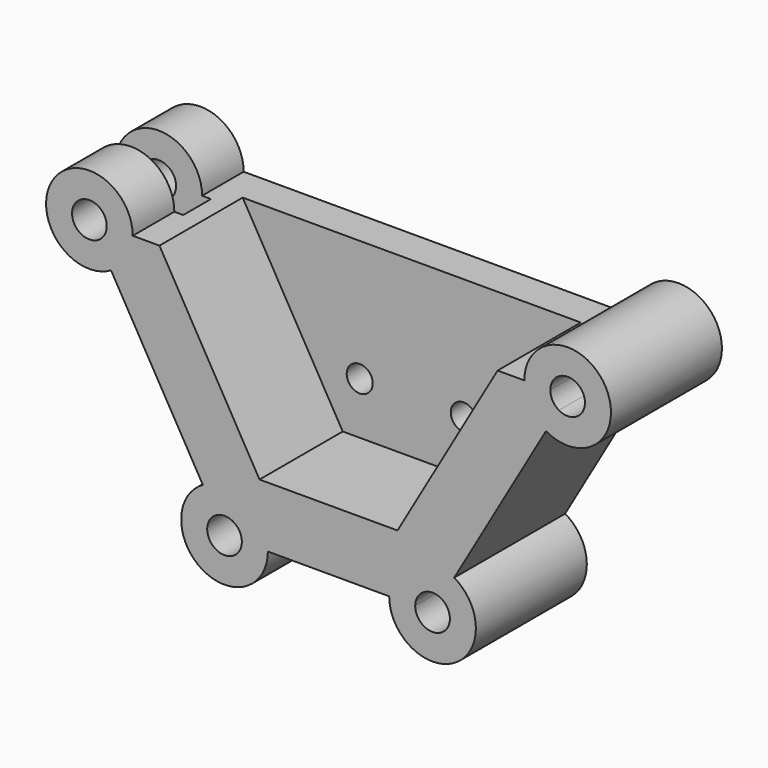
from build123d import *

# Parameters (mm, degrees)
F1_DEPTH = 50.8
F3_DEPTH = 76.2
F4_R     = 38.1
F5_DEPTH = 12.7
F6_R     = 9.525
F7_DEPTH = 25.401


with BuildPart() as f1:
    # F0 (on Front) → F1 (new body, symmetric)
    with BuildSketch(Plane.XZ):
        with BuildLine():
            ThreePointArc((-92.075, -61.1803239805), (-60.325, -61.1803239805), (-44.45, -88.6766305507))
            Line((-44.45, -88.6766305507), (44.45, -88.6766305507))
            ThreePointArc((44.45, -88.6766305507), (60.325, -61.1803239805), (92.075, -61.1803239805))
            Line((92.075, -61.1803239805), (159.3117036526, 55.2770628791))
            ThreePointArc((159.3117036526, 55.2770628791), (147.6903970824, 66.8983694493), (143.4367036526, 82.7733694493))
            Line((143.4367036526, 82.7733694493), (-143.4367036526, 82.7733694493))
            ThreePointArc((-143.4367036526, 82.7733694493), (-147.6903970824, 66.8983694493), (-159.3117036526, 55.2770628791))
            Line((-159.3117036526, 55.2770628791), (-92.075, -61.1803239805))
        make_face()
        with BuildLine():
            Line((-168.8367036526, 71.7748468212), (-159.3117036526, 55.2770628791))
            ThreePointArc((-159.3117036526, 55.2770628791), (-147.6903970824, 66.8983694493), (-143.4367036526, 82.7733694493))
            Line((-143.4367036526, 82.7733694493), (-162.4867036526, 82.7733694493))
            ThreePointArc((-162.4867036526, 82.7733694493), (-164.1881810245, 76.4233694493), (-168.8367036526, 71.7748468212))
        make_face()
        with BuildLine():
            ThreePointArc((-143.4367036526, 82.7733694493), (-202.6830102227, 98.6483694493), (-159.3117036526, 55.2770628791))
            Line((-159.3117036526, 55.2770628791), (-168.8367036526, 71.7748468212))
            ThreePointArc((-168.8367036526, 71.7748468212), (-186.1852262806, 89.1233694493), (-162.4867036526, 82.7733694493))
            Line((-162.4867036526, 82.7733694493), (-143.4367036526, 82.7733694493))
        make_face()
        with BuildLine():
            Line((168.8367036526, 71.7748468212), (159.3117036526, 55.2770628791))
            ThreePointArc((159.3117036526, 55.2770628791), (191.0617036526, 55.2770628791), (206.9367036526, 82.7733694493))
            ThreePointArc((206.9367036526, 82.7733694493), (175.1867036526, 114.5233694493), (143.4367036526, 82.7733694493))
            Line((143.4367036526, 82.7733694493), (162.4867036526, 82.7733694493))
            ThreePointArc((162.4867036526, 82.7733694493), (175.1867036526, 95.4733694493), (187.8867036526, 82.7733694493))
            ThreePointArc((187.8867036526, 82.7733694493), (181.5367036526, 71.7748468212), (168.8367036526, 71.7748468212))
        make_face()
        with BuildLine():
            ThreePointArc((143.4367036526, 82.7733694493), (147.6903970824, 66.8983694493), (159.3117036526, 55.2770628791))
            Line((159.3117036526, 55.2770628791), (168.8367036526, 71.7748468212))
            ThreePointArc((168.8367036526, 71.7748468212), (164.1881810245, 76.4233694493), (162.4867036526, 82.7733694493))
            Line((162.4867036526, 82.7733694493), (143.4367036526, 82.7733694493))
        make_face()
        with BuildLine():
            Line((63.5, -88.6766305507), (44.45, -88.6766305507))
            ThreePointArc((44.45, -88.6766305507), (76.2, -120.4266305507), (107.95, -88.6766305507))
            ThreePointArc((107.95, -88.6766305507), (103.6963065702, -72.8016305507), (92.075, -61.1803239805))
            Line((92.075, -61.1803239805), (82.55, -77.6781079226))
            ThreePointArc((82.55, -77.6781079226), (87.1985226281, -82.3266305507), (88.9, -88.6766305507))
            ThreePointArc((88.9, -88.6766305507), (76.2, -101.3766305507), (63.5, -88.6766305507))
        make_face()
        with BuildLine():
            ThreePointArc((92.075, -61.1803239805), (60.325, -61.1803239805), (44.45, -88.6766305507))
            Line((44.45, -88.6766305507), (63.5, -88.6766305507))
            ThreePointArc((63.5, -88.6766305507), (69.85, -77.6781079226), (82.55, -77.6781079226))
            Line((82.55, -77.6781079226), (92.075, -61.1803239805))
        make_face()
        with BuildLine():
            Line((-44.45, -88.6766305507), (-63.5, -88.6766305507))
            ThreePointArc((-63.5, -88.6766305507), (-82.55, -99.6751531788), (-82.55, -77.6781079226))
            Line((-82.55, -77.6781079226), (-92.075, -61.1803239805))
            ThreePointArc((-92.075, -61.1803239805), (-92.075, -116.1729371209), (-44.45, -88.6766305507))
        make_face()
        with BuildLine():
            ThreePointArc((-82.55, -77.6781079226), (-69.85, -77.6781079226), (-63.5, -88.6766305507))
            Line((-63.5, -88.6766305507), (-44.45, -88.6766305507))
            ThreePointArc((-44.45, -88.6766305507), (-60.325, -61.1803239805), (-92.075, -61.1803239805))
            Line((-92.075, -61.1803239805), (-82.55, -77.6781079226))
        make_face()
    extrude(amount=F1_DEPTH, both=True)

    # F2 (on face) → F3 (cut)
    with BuildSketch(Plane.XZ.offset(50.8)):
        Polygon((50.5367805345, -44.2266305507), (123.8602647216, 82.7733694493), (-123.8602647216, 82.7733694493), (-50.5367805345, -44.2266305507), align=None)
    extrude(amount=-F3_DEPTH, mode=Mode.SUBTRACT)

    # F4 (on Front) → F5 (cut, symmetric)
    with BuildSketch(Plane.XZ):
        with Locations((-175.0013381243, 83.766028285)):
            Circle(F4_R)
    extrude(amount=F5_DEPTH, both=True, mode=Mode.SUBTRACT)

    # F6 (on face) → F7 (cut, through all)
    with BuildSketch(Plane.XZ.offset(-25.4)):
        with Locations((-38.1, -6.1266305507)):
            Circle(F6_R)
        with Locations((38.1, -6.1266305507)):
            Circle(F6_R)
    extrude(amount=-F7_DEPTH, mode=Mode.SUBTRACT)


solid = f1.part
